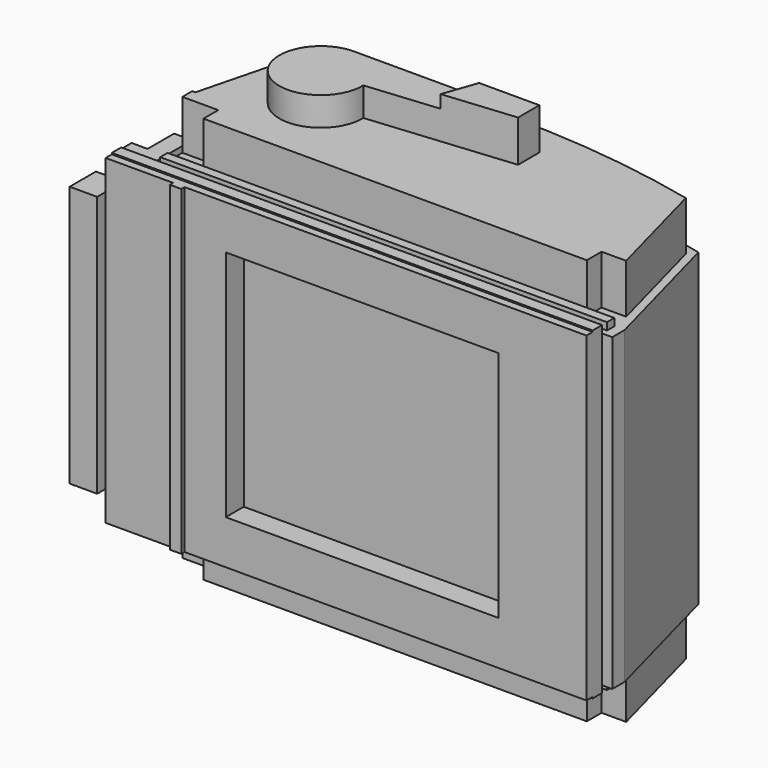
from build123d import *

# Parameters (mm, degrees)
F0_W           = 98
F0_H           = 78.35
F0_W_2         = 2.5
F0_W_3         = 16.75
F1_DEPTH       = 4.75
F2_W           = 2.75
F2_H           = 78.35
F3_DEPTH       = 1
F4_W           = 66.56
F4_H           = 56.85
F5_DEPTH       = 25
F6_W           = 117.25
F6_H           = 79
F7_DEPTH       = 2.86
F8_W           = 3.9
F8_H           = 78.35
F9_DEPTH       = 7.91
F10_W          = 8.31
F10_H          = 78.35
F11_DEPTH      = 6.5
F12_W          = 111.44
F12_H          = 75.54
F13_DEPTH      = 1.5
F14_W          = 4.41
F14_H          = 78.35
F15_DEPTH      = 9.5
F17_DEPTH      = 2.25
F19_DEPTH      = 40
F21_DEPTH      = 95.3
F23_DEPTH      = 12
F23_DEPTH_BACK = 87
F25_DEPTH      = 7
F27_DEPTH      = 3.15
F28_W          = 8
F28_H          = 63.75
F29_DEPTH      = 6.7
F30_W          = 66.56
F30_H          = 56.85
F31_DEPTH      = 5.5


with BuildPart() as f1:
    # F0 (on Front) → F1 (new body)
    with BuildSketch(Plane.XZ):
        with Locations((9.625, 0)):
            Rectangle(F0_W, F0_H)
        with Locations((-40.625, 0)):
            Rectangle(F0_W_2, F0_H)
        with Locations((-50.25, 0)):
            Rectangle(F0_W_3, F0_H)
    extrude(amount=F1_DEPTH)

    # F2 (on face) → F3 (join)
    with BuildSketch(Plane.XZ.offset(4.75)):
        with Locations((-40.75, 0)):
            Rectangle(F2_W, F2_H)
    extrude(amount=F3_DEPTH)

    # F4 (on face) → F5 (cut)
    with BuildSketch(Plane.XZ.offset(4.75)):
        with Locations((3.945, 0)):
            Rectangle(F4_W, F4_H)
    extrude(amount=-F5_DEPTH, mode=Mode.SUBTRACT)

    # F6 (on face) → F7 (join)
    with BuildSketch(Plane(origin=(0, 0, 0), x_dir=(-1, 0, 0), z_dir=(0, 1, 0))):
        Rectangle(F6_W, F6_H)
    extrude(amount=-F7_DEPTH)

    # F8 (on face) → F9 (join)
    with BuildSketch(Plane.XZ.offset(4.75)):
        with Locations((-56.675, 0)):
            Rectangle(F8_W, F8_H)
    extrude(amount=-F9_DEPTH)

    # F10 (on face) → F11 (join)
    with BuildSketch(Plane.XZ.offset(4.75)):
        with Locations((-54.47, 0)):
            Rectangle(F10_W, F10_H)
    extrude(amount=-F11_DEPTH)

    # F12 (on face) → F13 (join)
    with BuildSketch(Plane(origin=(0, 0, 0), x_dir=(-1, 0, 0), z_dir=(0, 1, 0))):
        with Locations((-5.405, -0.063661)):
            Rectangle(F12_W, F12_H)
    extrude(amount=F13_DEPTH)

    # F14 (on face) → F15 (join)
    with BuildSketch(Plane(origin=(0, 1.75, 0), x_dir=(-1, 0, 0), z_dir=(0, 1, 0))):
        with Locations((52.52, 0)):
            Rectangle(F14_W, F14_H)
    extrude(amount=F15_DEPTH)

    # F16 (on face) → F17 (join)
    with BuildSketch(Plane(origin=(0, 1.5, 0), x_dir=(-1, 0, 0), z_dir=(0, 1, 0))):
        Polygon((50.315, 39.5), (-58.625, 39.5), (-58.625, 37.706339), (-61.125, 37.706339), (-61.125, -37.833661), (-58.625, -37.833661), (-58.625, -39.5), (50.315, -39.5), align=None)
    extrude(amount=F17_DEPTH)

    # F18 (on face) → F19 (join)
    with BuildSketch(Plane(origin=(0, 3.75, 0), x_dir=(-1, 0, 0), z_dir=(0, 1, 0))):
        Polygon((-58.625, 37.706339), (-61.125, 37.706339), (-61.125, -37.833661), (-58.625, -37.833661), (50.315, -37.833661), (50.315, 37.706339), align=None)
    extrude(amount=F19_DEPTH)

    # F20 (on face) → F21 (cut)
    with BuildSketch(Plane.XY.offset(37.706339)):
        with BuildLine():
            Line((52.066333, 37.557404), (61.125, 3.75))
            Line((61.125, 3.75), (71.237857, 49.97474))
            Line((71.237857, 49.97474), (-55.704342, 49.97474))
            Line((-55.704342, 49.97474), (-51.884619, 11.25))
            Line((-51.884619, 11.25), (-44.835571, 37.557404))
            ThreePointArc((-44.835571, 37.557404), (3.615381, 43.774144), (52.066333, 37.557404))
        make_face()
    extrude(amount=-F21_DEPTH, mode=Mode.SUBTRACT)

    # F22 (on face) → F23 (join, two sides)
    with BuildSketch(Plane.XY.offset(37.706339)) as f23_sk:
        with BuildLine():
            Line((-50.315, 11.25), (-50.315, 8.25))
            Line((-50.315, 8.25), (-41.565, 8.25))
            Line((-41.565, 8.25), (-41.565, 3.75))
            Line((-41.565, 3.75), (51.919229, 3.75))
            Line((51.919229, 3.75), (51.919229, 8.25))
            Line((51.919229, 8.25), (57.919229, 8.25))
            Line((57.919229, 8.25), (50.602232, 35.557404))
            ThreePointArc((50.602232, 35.557404), (3.628124, 40.940752), (-43.345984, 35.557404))
            Line((-43.345984, 35.557404), (-49.549382, 11.25))
            Line((-49.549382, 11.25), (-50.315, 11.25))
        make_face()
    extrude(amount=F23_DEPTH)
    extrude(f23_sk.sketch, amount=-F23_DEPTH_BACK)

    # F24 (on face) → F25 (join)
    with BuildSketch(Plane.XY.offset(49.706339)):
        with BuildLine():
            ThreePointArc((-27.889039, 32.801446), (-35.316112, 15.589262), (-17.962004, 22.678382))
            ThreePointArc((-17.962004, 22.678382), (-17.963055, 22.824296), (-17.966209, 22.97018))
            ThreePointArc((-17.966209, 22.97018), (-20.960809, 29.870946), (-27.889039, 32.801446))
        make_face()
        with BuildLine():
            ThreePointArc((-27.889039, 32.801446), (-20.960809, 29.870946), (-17.966209, 22.97018))
            Line((-17.966209, 22.97018), (17.110961, 26.301446))
            Line((17.110961, 26.301446), (17.110961, 32.801446))
            Line((17.110961, 32.801446), (-27.889039, 32.801446))
        make_face()
    extrude(amount=F25_DEPTH)

    # F26 (on face) → F27 (join)
    with BuildSketch(Plane.XY.offset(56.706339)):
        Polygon((17.110961, 26.301446), (17.110961, 32.801446), (2.419159, 32.801446), (-0.427624, 24.635813), align=None)
    extrude(amount=F27_DEPTH)

    # F28 (on face) → F29 (join)
    with BuildSketch(Plane(origin=(-58.625, 0, 0), x_dir=(0, -1, 0), z_dir=(-1, 0, 0))):
        with Locations((3.34, 0)):
            Rectangle(F28_W, F28_H)
    extrude(amount=F29_DEPTH)

    # F30 (on face) → F31 (cut)
    with BuildSketch(Plane.XZ.offset(4.75)):
        with Locations((3.945, 0)):
            Rectangle(F30_W, F30_H)
    extrude(amount=-F31_DEPTH, mode=Mode.SUBTRACT)


solid = f1.part
